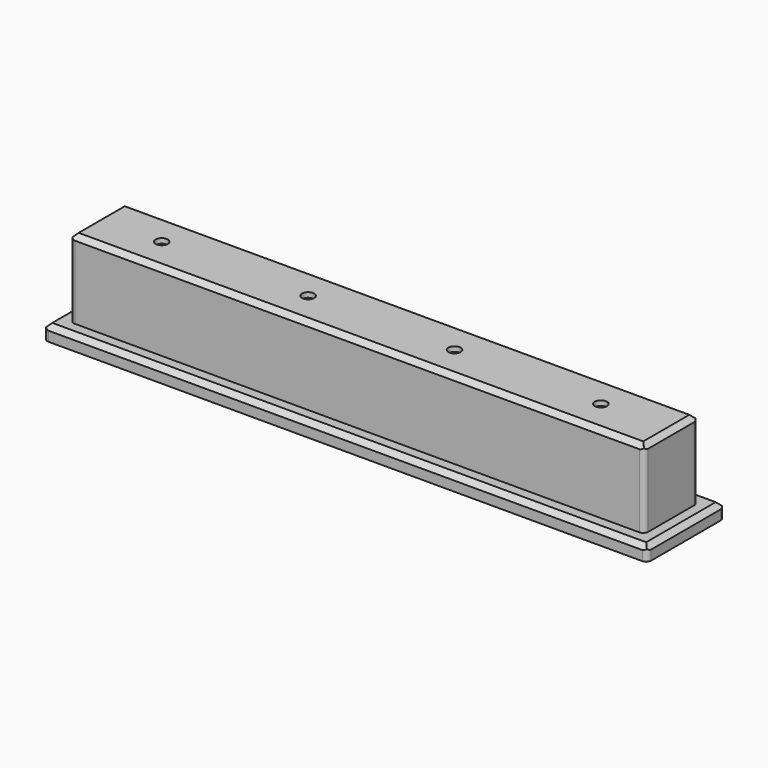
from build123d import *

# Parameters (mm, degrees)
SKETCH_W        = 123.7
SKETCH_H        = 19.8
PAD_DEPTH       = 3
SKETCH001_W     = 117.7
SKETCH001_H     = 13.8
PAD001_DEPTH    = 16
SKETCH002_R     = 1.85
POCKET_DEPTH    = 18
CHAMFER_SIZE    = 1
SKETCH003_R     = 1.25
POCKET001_DEPTH = 5
CHAMFER001_SIZE = 1
FILLET_R        = 1
CHAMFER002_SIZE = 0.3


with BuildPart() as part:
    # Sketch → Pad (new body)
    with BuildSketch(Plane.XY):
        Rectangle(SKETCH_W, SKETCH_H)
    extrude(amount=PAD_DEPTH)

    # Sketch001 (on Face6 of Pad) → Pad001 (join)
    with BuildSketch(Plane.XY.offset(3)):
        Rectangle(SKETCH001_W, SKETCH001_H)
    extrude(amount=PAD001_DEPTH)

    # Sketch002 (on Face4 of Pad001) → Pocket (cut)
    with BuildSketch(Plane(origin=(0, 0, 0), x_dir=(1, 0, 0), z_dir=(0, 0, -1))):
        with Locations((-45.55, 0)):
            Circle(SKETCH002_R)
        with Locations((-15.55, 0)):
            Circle(SKETCH002_R)
        with Locations((14.45, 0)):
            Circle(SKETCH002_R)
        with Locations((44.45, 0)):
            Circle(SKETCH002_R)
    extrude(amount=-POCKET_DEPTH, mode=Mode.SUBTRACT)

    # Chamfer
    chamfer_edges = [part.edges().sort_by_distance(p)[0] for p in [
        (0, 9.9, 3),
        (-61.85, 0, 3),
        (61.85, 0, 3),
        (0, -9.9, 3),
    ]]
    chamfer(chamfer_edges, length=CHAMFER_SIZE)

    # Sketch003 → Pocket001 (cut)
    with BuildSketch(Plane(origin=(0, 0, 18), x_dir=(1, 0, 0), z_dir=(0, 0, -1))):
        with Locations((-45.55, 0)):
            Circle(SKETCH003_R)
        with Locations((-15.55, 0)):
            Circle(SKETCH003_R)
        with Locations((14.45, 0)):
            Circle(SKETCH003_R)
        with Locations((44.45, 0)):
            Circle(SKETCH003_R)
    extrude(amount=-POCKET001_DEPTH, mode=Mode.SUBTRACT)

    # Chamfer001
    chamfer001_edges = [part.edges().sort_by_distance(p)[0] for p in [
        (0, -6.9, 19),
        (0, 6.9, 19),
        (-58.85, 0, 19),
        (58.85, 0, 19),
    ]]
    chamfer(chamfer001_edges, length=CHAMFER001_SIZE)

    # Fillet
    fillet_edges = [part.edges().sort_by_distance(p)[0] for p in [
        (58.85, -6.9, 10.5),
        (58.85, 6.9, 10.5),
        (61.85, 9.9, 1),
        (61.85, -9.9, 1),
        (-58.85, -6.9, 10.5),
        (-58.85, 6.9, 10.5),
        (-61.85, 9.9, 1),
        (-61.85, -9.9, 1),
    ]]
    fillet(fillet_edges, radius=FILLET_R)

    # Chamfer002
    chamfer002_edges = [part.edges().sort_by_distance(p)[0] for p in [
        (-47.4, 0, 0),
        (-17.4, 0, 0),
        (12.6, 0, 0),
        (42.6, 0, 0),
    ]]
    chamfer(chamfer002_edges, length=CHAMFER002_SIZE)


solid = part.part
